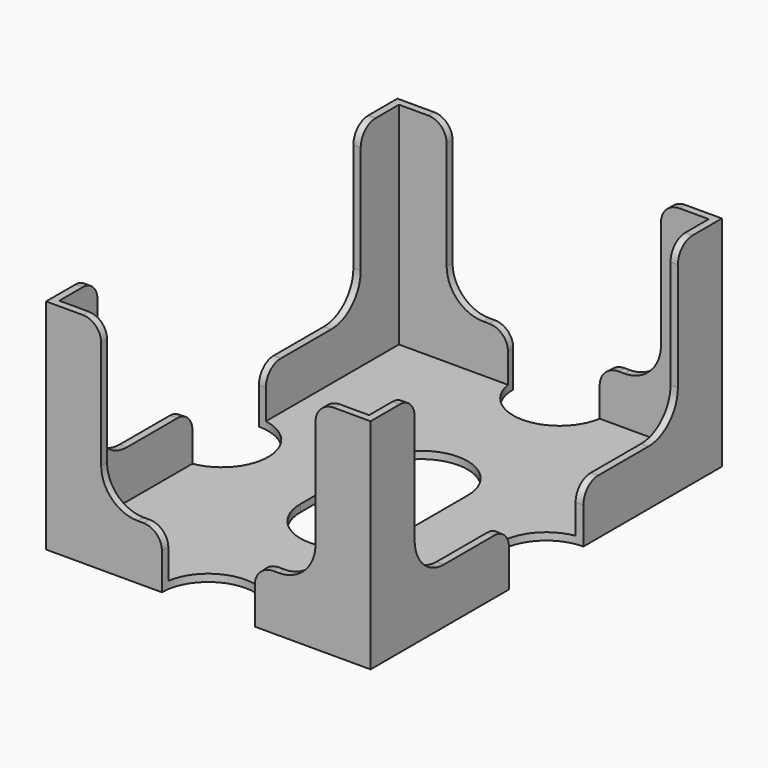
from build123d import *

# Parameters (mm, degrees)
SKETCH035_W          = 70.7
SKETCH035_H          = 95.7
PAD017_DEPTH         = 47.6
THICKNESS017_T       = -1.6
POCKET018_DEPTH      = 47.851
POCKET018_DEPTH_BACK = 47.851
POCKET019_DEPTH      = 35.351
POCKET019_DEPTH_BACK = 35.351
SKETCH038_R          = 10.125
POCKET020_DEPTH      = 0.001
POCKET020_DEPTH_BACK = 47.601
FILLET003_R          = 4


with BuildPart() as part:
    # Sketch035 → Pad017 (new body)
    with BuildSketch(Plane.XY):
        Rectangle(SKETCH035_W, SKETCH035_H)
    extrude(amount=PAD017_DEPTH)

    # Thickness017
    thickness017_openings = [part.faces().sort_by_distance(p)[0] for p in [
        (0, 0, 47.6),
    ]]
    offset(amount=THICKNESS017_T, openings=thickness017_openings, kind=Kind.INTERSECTION)

    # Sketch036 → Pocket018 (cut, two sides)
    with BuildSketch(Plane.XZ) as pocket018_sk:
        with BuildLine():
            Line((-23.35, 47.6), (23.35, 47.6))
            Line((23.35, 47.6), (23.35, 20))
            ThreePointArc((15.35, 12), (21.006854, 14.343146), (23.35, 20))
            Line((15.35, 12), (-15.35, 12))
            ThreePointArc((-23.35, 20), (-21.006854, 14.343146), (-15.35, 12))
            Line((-23.35, 20), (-23.35, 47.6))
        make_face()
    extrude(amount=-POCKET018_DEPTH, mode=Mode.SUBTRACT)
    extrude(pocket018_sk.sketch, amount=POCKET018_DEPTH_BACK, mode=Mode.SUBTRACT)

    # Sketch037 → Pocket019 (cut, two sides)
    with BuildSketch(Plane.YZ) as pocket019_sk:
        with BuildLine():
            Line((-35.85, 47.6), (35.85, 47.6))
            Line((35.85, 47.6), (35.85, 20))
            ThreePointArc((27.85, 12), (33.506854, 14.343146), (35.85, 20))
            Line((27.85, 12), (-27.85, 12))
            ThreePointArc((-35.85, 20), (-33.506854, 14.343146), (-27.85, 12))
            Line((-35.85, 20), (-35.85, 47.6))
        make_face()
    extrude(amount=-POCKET019_DEPTH, mode=Mode.SUBTRACT)
    extrude(pocket019_sk.sketch, amount=POCKET019_DEPTH_BACK, mode=Mode.SUBTRACT)

    # Sketch038 → Pocket020 (cut, two sides)
    with BuildSketch(Plane.XY) as pocket020_sk:
        with Locations((0, 47.85)):
            Circle(SKETCH038_R)
        with Locations((0, -47.85)):
            Circle(SKETCH038_R)
        with Locations((35.35, 0)):
            Circle(SKETCH038_R)
        with Locations((-35.35, 0)):
            Circle(SKETCH038_R)
        with BuildLine():
            ThreePointArc((10.125, 10.125), (0, 20.25), (-10.125, 10.125))
            Line((-10.125, 10.125), (-10.125, -10.125))
            ThreePointArc((-10.125, -10.125), (0, -20.25), (10.125, -10.125))
            Line((10.125, 10.125), (10.125, -10.125))
        make_face()
    extrude(amount=-POCKET020_DEPTH, mode=Mode.SUBTRACT)
    extrude(pocket020_sk.sketch, amount=POCKET020_DEPTH_BACK, mode=Mode.SUBTRACT)

    # Fillet003
    fillet003_edges = [part.edges().sort_by_distance(p)[0] for p in [
        (34.547475, -10.093145, 12),
        (34.547475, 10.093145, 12),
        (34.55, 35.85, 47.6),
        (23.35, 47.05, 47.6),
        (10.093145, 47.047475, 12),
        (-10.093145, 47.047475, 12),
        (-23.35, 47.05, 47.6),
        (-34.55, 35.85, 47.6),
        (-34.547475, 10.093145, 12),
        (-34.547475, -10.093145, 12),
        (-34.55, -35.85, 47.6),
        (-23.35, -47.05, 47.6),
        (-10.093145, -47.047475, 12),
        (10.093145, -47.047475, 12),
        (23.35, -47.05, 47.6),
        (34.55, -35.85, 47.6),
    ]]
    fillet(fillet003_edges, radius=FILLET003_R)


with BuildPart() as part_1:
    # Body017 placement: moved
    add(part.part.moved(Location((138.2, 0, 0))))


solid = part_1.part
